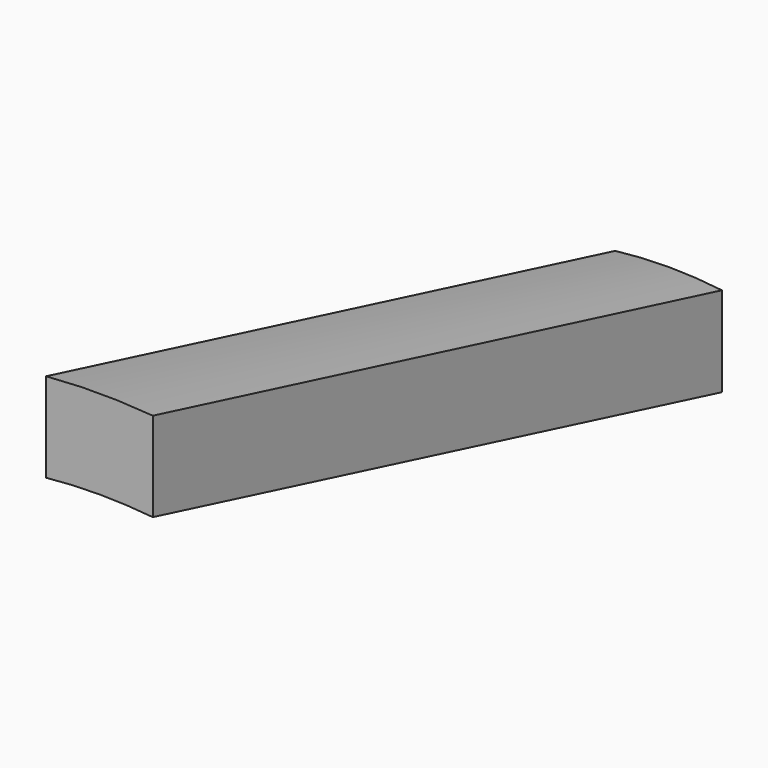
from build123d import *


with BuildPart() as f3:
    # F0 (on Front) → F3 section 0
    with BuildSketch(Plane.XZ):
        with BuildLine():
            ThreePointArc((-3, 19.77372), (0, 20), (3, 19.77372))
            Line((3, 19.77372), (3, 24.819347))
            ThreePointArc((3, 24.819347), (0, 25), (-3, 24.819347))
            Line((-3, 24.819347), (-3, 19.77372))
        make_face()
    # F2 (on offset) → F3 section 1
    with BuildSketch(Plane.XZ.offset(40)):
        with BuildLine():
            ThreePointArc((-3, 29.849623), (0, 30), (3, 29.849623))
            Line((3, 29.849623), (3, 34.871192))
            ThreePointArc((3, 34.871192), (0, 35), (-3, 34.871192))
            Line((-3, 34.871192), (-3, 29.849623))
        make_face()
    loft()


solid = f3.part
